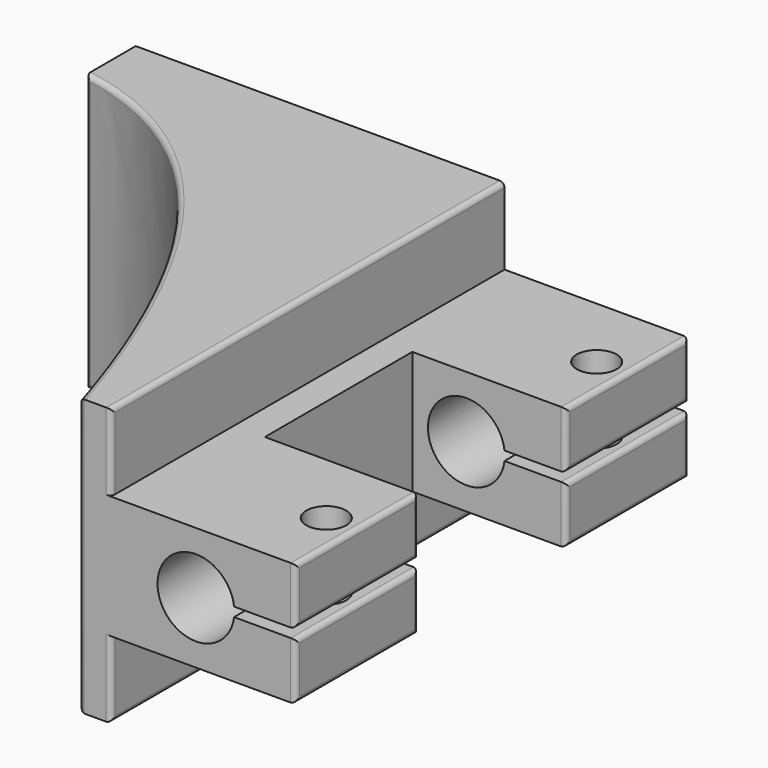
from build123d import *

# Parameters (mm, degrees)
PAD_DEPTH       = 80
SKETCH001_W     = 25
SKETCH001_H     = 30
SKETCH001_R     = 3.25
POCKET_DEPTH    = 45.001
FILLET_R        = 0.8
SKETCH002_W     = 52
SKETCH002_H     = 37
POCKET001_DEPTH = 8
FILLET001_R     = 0.8
FILLET002_R     = 0.8


with BuildPart() as part:
    # Sketch → Pad (new body)
    with BuildSketch(Plane.XZ):
        with BuildLine():
            Line((-15, 10), (15, 10))
            Line((15, 10), (15, 0.75))
            Line((15, 0.75), (5, 0.75))
            ThreePointArc((5, 0.75), (-7.454837, 0), (5, -0.75))
            Line((15, -0.75), (5, -0.75))
            Line((15, -10), (15, -0.75))
            Line((15, -10), (-15, -10))
            Line((-15, -22.5), (-15, -10))
            Line((-75, -22.5), (-15, -22.5))
            Line((-75, 22.5), (-75, -22.5))
            Line((-15, 22.5), (-75, 22.5))
            Line((-15, 10), (-15, 22.5))
        make_face()
    extrude(amount=PAD_DEPTH)

    # Sketch001 (on Face9 of Pad) → Pocket (cut, through all)
    with BuildSketch(Plane(origin=(0, 0, -22.5), x_dir=(1, 0, 0), z_dir=(0, 0, -1))):
        with Locations((2.5, 40)):
            Rectangle(SKETCH001_W, SKETCH001_H)
        with BuildLine():
            Line((-20, 80), (-75, 80))
            Line((-75, 80), (-75, 10))
            add(Edge.make_bspline(
                [(-75, 10), (-40, 16), (-20, 80)],
                knots=[0, 0, 0, 1, 1, 1], degree=2))
        make_face()
        with Locations((10, 12.5)):
            Circle(SKETCH001_R)
        with Locations((10, 67.5)):
            Circle(SKETCH001_R)
    extrude(amount=-POCKET_DEPTH, mode=Mode.SUBTRACT)

    # Fillet
    fillet_edges = [part.edges().sort_by_distance(p)[0] for p in [
        (-38.841084, -37.393675, -22.5),
        (-20, -80, 0),
        (-38.841077, -37.393686, 22.5),
        (-75, -10, 0),
    ]]
    fillet(fillet_edges, radius=FILLET_R)

    # Sketch002 (on Face17 of Fillet) → Pocket001 (cut)
    with BuildSketch(Plane(origin=(0, 0, 0), x_dir=(1, 0, 0), z_dir=(0, 1, 0))):
        with Locations((-45, 0)):
            Rectangle(SKETCH002_W, SKETCH002_H)
    extrude(amount=-POCKET001_DEPTH, mode=Mode.SUBTRACT)

    # Fillet001
    fillet001_edges = [part.edges().sort_by_distance(p)[0] for p in [
        (15, 0, 5.375),
        (15, -12.5, 0.75),
        (15, -25, 5.375),
        (15, -12.5, 10),
        (15, 0, -5.375),
        (15, -12.5, -0.75),
        (15, -25, -5.375),
        (15, -12.5, -10),
        (15, -55, 5.375),
        (15, -67.5, 0.75),
        (15, -80, 5.375),
        (15, -67.5, 10),
        (15, -55, -5.375),
        (15, -67.5, -0.75),
        (15, -80, -5.375),
        (15, -67.5, -10),
    ]]
    fillet(fillet001_edges, radius=FILLET001_R)

    # Fillet002
    fillet002_edges = [part.edges().sort_by_distance(p)[0] for p in [
        (-15, -40, 22.5),
        (-15, -80, 16.25),
        (-15, -80, -16.25),
        (-15, -40, -22.5),
    ]]
    fillet(fillet002_edges, radius=FILLET002_R)


solid = part.part
